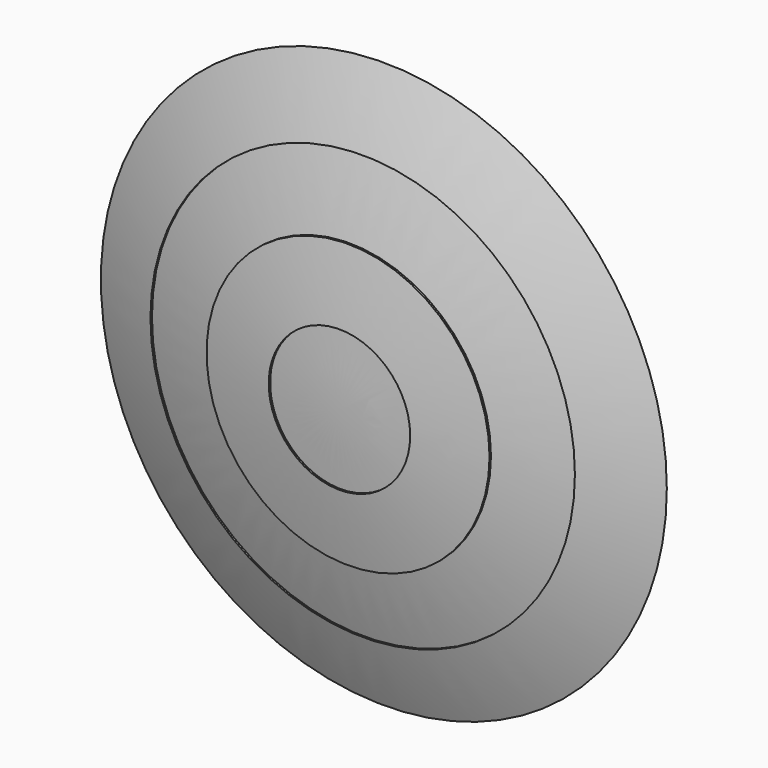
from build123d import *


with BuildPart() as f1:
    # F0 (on Top) → F1 (revolve)
    with BuildSketch(Plane.XY):
        with BuildLine():
            ThreePointArc((381, -1208.1740688431), (441.0588132701, -1187.5658734831), (500.0095805332, -1163.9742265188))
            Line((500.0095805332, -1163.9742265188), (491.9098723343, -1163.9742265188))
            ThreePointArc((491.9098723343, -1163.9742265188), (250.9534729382, -1238.4803902042), (0, -1263.65))
            Line((0, -1263.65), (0, -1266.825))
            ThreePointArc((0, -1266.825), (63.5801262199, -1265.2284964286), (127, -1260.4430096696))
            ThreePointArc((127, -1260.4430096696), (190.7453447969, -1252.3824472035), (254, -1241.1001493131))
            ThreePointArc((254, -1241.1001493131), (317.9265350577, -1226.2823080071), (381, -1208.1740688431))
        make_face()
        with BuildLine():
            Line((127, -1260.4430096696), (127, -1263.6340451254))
            ThreePointArc((127, -1263.6340451254), (190.7440888462, -1255.5941591813), (254, -1244.3407893339))
            Line((254, -1244.3407893339), (254, -1241.1001493131))
            ThreePointArc((254, -1241.1001493131), (190.7453447969, -1252.3824472035), (127, -1260.4430096696))
        make_face()
        with BuildLine():
            ThreePointArc((381, -1211.5027857995), (445.1348009163, -1189.4347434867), (508, -1163.9742265188))
            Line((508, -1163.9742265188), (500.0095805332, -1163.9742265188))
            ThreePointArc((500.0095805332, -1163.9742265188), (441.0588132701, -1187.5658734831), (381, -1208.1740688431))
            Line((381, -1208.1740688431), (381, -1211.5027857995))
        make_face()
    revolve(axis=Axis((0, -1266.825, 0), (0, -1, 0)))


solid = f1.part
